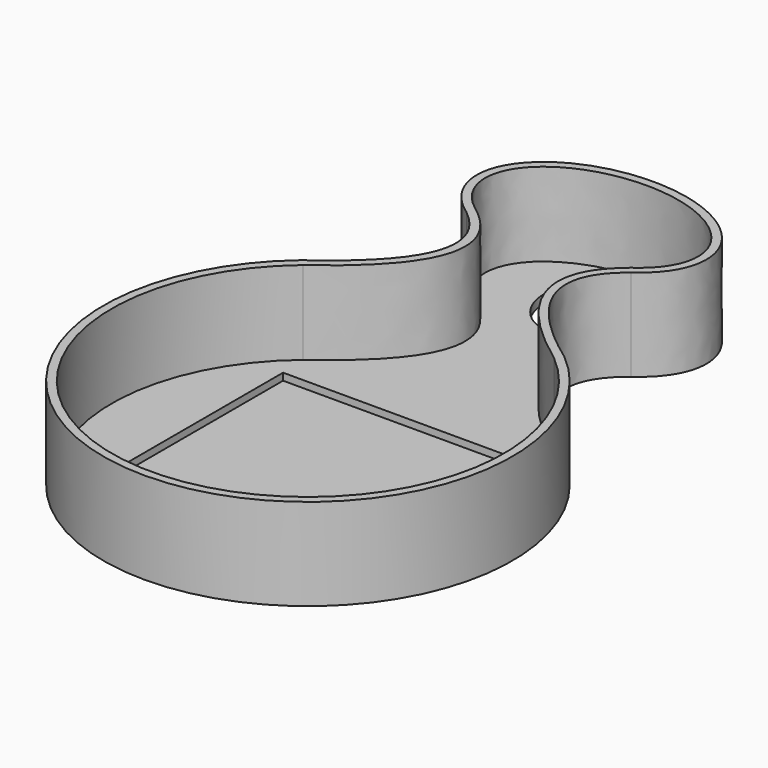
from build123d import *

# Parameters (mm, degrees)
SKETCH006_R     = 11.5
PAD002_DEPTH    = 22
SKETCH007_W     = 59.5
SKETCH007_H     = 59.5
POCKET001_DEPTH = 21.701
POCKET002_DEPTH = 20.001


with BuildPart() as part:
    # Sketch006 → Pad002 (new body)
    with BuildSketch(Plane.XY):
        with BuildLine():
            ThreePointArc((-31.601416, 37.447971), (0.14834, -48.999775), (31.374102, 37.63862))
            add(Edge.make_bspline(
                [(19.736906, 72.117588), (2.37782, 58.411312), (31.374102, 37.63862)],
                knots=[0, 0, 0, 1, 1, 1], degree=2, weights=[0.989264, 1, 1]))
            add(Edge.make_bspline(
                [(19.736906, 72.117588), (64.998138, 103.5), (0, 103.5), (-64.998138, 103.5), (-19.736906, 72.117588)],
                knots=[5.512891, 5.512891, 5.512891, 7.853982, 7.853982, 10.195072, 10.195072, 10.195072], degree=2, weights=[1, 0.389649, 1, 0.389649, 1]))
            add(Edge.make_bspline(
                [(-19.736906, 72.117588), (-2.37782, 58.411312), (-31.601416, 37.447971)],
                knots=[0, 0, 0, 1, 1, 1], degree=2))
        make_face()
        with Locations((0, 85)):
            Circle(SKETCH006_R, mode=Mode.SUBTRACT)
    extrude(amount=PAD002_DEPTH)

    # Sketch007 → Pocket001 (cut, through all)
    with BuildSketch(Plane.XY.offset(0.3)):
        Rectangle(SKETCH007_W, SKETCH007_H)
    extrude(amount=POCKET001_DEPTH, mode=Mode.SUBTRACT)

    # Sketch008 → Pocket002 (cut, through all)
    with BuildSketch(Plane.XY.offset(2)):
        with BuildLine():
            add(Edge.make_bspline(
                [(19.970939, 74.740258), (53.708474, 102.235842), (-0.537125, 101.496339), (-54.782724, 100.756837), (-19.285395, 74.205097)],
                knots=[5.612143, 5.612143, 5.612143, 7.875047, 7.875047, 10.137951, 10.137951, 10.137951], degree=2, weights=[1, 0.425346, 1, 0.425346, 1]))
            add(Edge.make_bspline(
                [(-19.285395, 74.205097), (1.40607, 59), (-30.093518, 36.102357)],
                knots=[0, 0, 0, 1, 1, 1], degree=2))
            ThreePointArc((-30.093518, 36.102357), (0, -47), (30.093518, 36.102357))
            add(Edge.make_bspline(
                [(19.970939, 74.740258), (-1.40607, 59), (30.093518, 36.102357)],
                knots=[0, 0, 0, 1, 1, 1], degree=2, weights=[0.989264, 1, 1]))
        make_face()
    extrude(amount=POCKET002_DEPTH, mode=Mode.SUBTRACT)


solid = part.part
